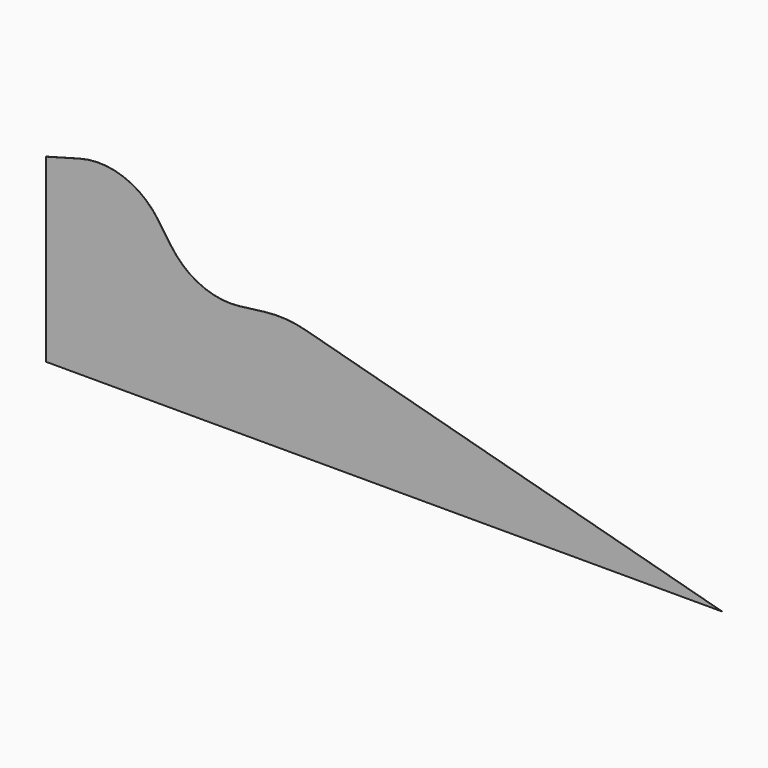
from build123d import *

# Parameters (mm, degrees)
F1_DEPTH = 1


with BuildPart() as f1:
    # F0 (on Front) → F1 (new body)
    with BuildSketch(Plane.XZ):
        with BuildLine():
            Line((-1139.410854, 610.063225), (-1139.410854, -389.936775))
            Line((-1139.410854, -389.936775), (2601.634026, -389.936775))
            Line((2601.634026, -389.936775), (301.27737, 230.574696))
            ThreePointArc((301.27737, 230.574696), (187.021902, 249.80792), (71.200021, 246.722329))
            Line((71.200021, 246.722329), (-68.31717, 229.426816))
            ThreePointArc((-68.31717, 229.426816), (-280.372468, 261.037127), (-445.643695, 397.609753))
            Line((-445.643695, 397.609753), (-519.662595, 503.76842))
            ThreePointArc((-519.662595, 503.76842), (-711.434164, 651.035244), (-953.026027, 660.89546))
            Line((-953.026027, 660.89546), (-1139.410854, 610.063225))
        make_face()
    extrude(amount=F1_DEPTH)


solid = f1.part
